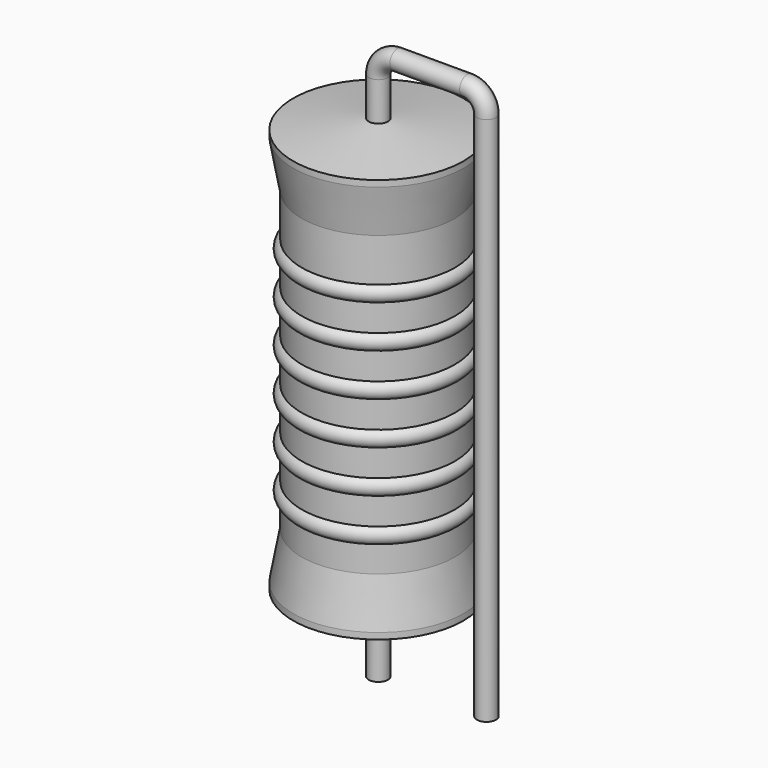
from build123d import *

# Parameters (mm, degrees)
SKETCH_R = 0.45


with BuildPart() as revolution:
    # Sketch002 → Revolution (revolve)
    with BuildSketch(Plane.XZ):
        Polygon((0, 0.1), (0, 20.1), (0.3375, 20.1), (4, 19.6), (4, 19.3075), (3.6, 17.1), (3.6, 3.1), (4, 0.8925), (4, 0.6), (0.3375, 0.1), align=None)
    revolve(axis=Axis((0, 0, 0), (0, 0, 1)))


with BuildPart() as sweep_body:
    # Sweep: sweep along a path in Sketch001
    with BuildLine(Plane.XZ) as sweep_path:
        Line((0, -3), (0, 21.9))
        ThreePointArc((0, 21.9), (0.263599, 22.536392), (0.899987, 22.8))
        Line((0.899987, 22.8), (4.18, 22.8))
        ThreePointArc((4.18, 22.8), (4.816396, 22.536396), (5.08, 21.9))
        Line((5.08, 21.9), (5.08, -3))
    # Sketch → Sweep (sweep)
    with BuildSketch(Plane.XY.offset(-2)):
        Circle(SKETCH_R)
    sweep(path=sweep_path.line)


with BuildPart() as l_axial_l20_0mm_d8_0mm_p5_08mm_vertical:
    # Sketch003 → Revolution001 (revolve)
    with BuildSketch(Plane.XZ):
        with BuildLine():
            Line((3.2, 16.3), (3.2, 3.1))
            Line((3.2, 3.1), (3.44, 3.1))
            Line((3.44, 3.1), (3.44, 4.3))
            ThreePointArc((3.44, 4.3), (3.84, 4.7), (3.44, 5.1))
            Line((3.44, 5.1), (3.44, 6.3))
            ThreePointArc((3.44, 6.3), (3.84, 6.7), (3.44, 7.1))
            Line((3.44, 7.1), (3.44, 8.3))
            ThreePointArc((3.44, 8.3), (3.84, 8.7), (3.44, 9.1))
            Line((3.44, 9.1), (3.44, 10.3))
            ThreePointArc((3.44, 10.3), (3.84, 10.7), (3.44, 11.1))
            Line((3.44, 11.1), (3.44, 12.3))
            ThreePointArc((3.44, 12.3), (3.84, 12.7), (3.44, 13.1))
            Line((3.44, 13.1), (3.44, 14.3))
            ThreePointArc((3.44, 14.3), (3.84, 14.7), (3.44, 15.1))
            Line((3.44, 16.3), (3.44, 15.1))
            Line((3.2, 16.3), (3.44, 16.3))
        make_face()
    revolve(axis=Axis((0, 0, 0), (0, 0, 1)))

    add(revolution.part)
    add(sweep_body.part)


solid = l_axial_l20_0mm_d8_0mm_p5_08mm_vertical.part
